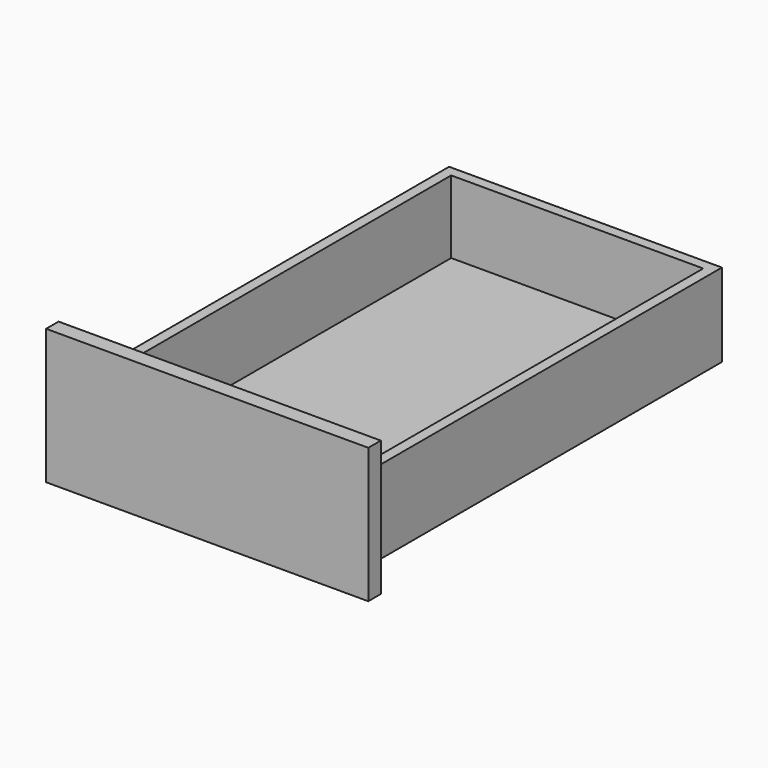
from build123d import *

# Parameters (mm, degrees)
F0_W     = 393.7
F0_H     = 165.1
F1_DEPTH = 19.05
F3_DEPTH = 558.8
F4_W     = 307.975
F4_H     = 533.4
F5_DEPTH = 88.9
F6_W     = 307.975
F6_H     = 533.4
F7_DEPTH = 6.35


with BuildPart() as f1:
    # F0 (on Front) → F1 (new body)
    with BuildSketch(Plane.XZ):
        Rectangle(F0_W, F0_H)
    extrude(amount=F1_DEPTH)

    # F2 (on face) → F3 (join)
    with BuildSketch(Plane(origin=(0, 0, 0), x_dir=(-1, 0, 0), z_dir=(0, 1, 0))):
        Polygon((-166.6875, -69.85), (0, -69.85), (166.6875, -69.85), (166.6875, 31.75), (-166.6875, 31.75), align=None)
    extrude(amount=F3_DEPTH)

    # F4 (on face) → F5 (cut)
    with BuildSketch(Plane.XY.offset(31.75)):
        with Locations((0, 279.4)):
            Rectangle(F4_W, F4_H)
    extrude(amount=-F5_DEPTH, mode=Mode.SUBTRACT)

    # F6 (on face) → F7 (cut)
    with BuildSketch(Plane(origin=(0, 0, -69.85), x_dir=(1, 0, 0), z_dir=(0, 0, -1))):
        with Locations((0, -279.4)):
            Rectangle(F6_W, F6_H)
    extrude(amount=-F7_DEPTH, mode=Mode.SUBTRACT)


solid = f1.part
